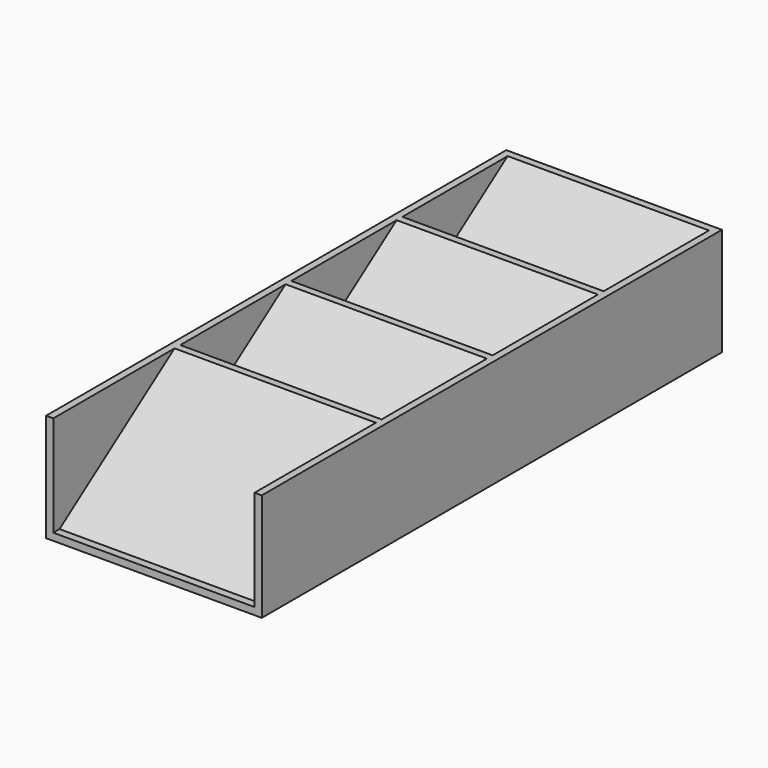
from build123d import *

# Parameters (mm, degrees)
F0_W     = 28
F0_H     = 80
F1_DEPTH = 1
F0_W_2   = 1
F2_DEPTH = 15
F4_DEPTH = 28


with BuildPart() as f1:
    # F0 (on Top) → F1 (new body)
    with BuildSketch(Plane.XY):
        Rectangle(F0_W, F0_H)
    extrude(amount=F1_DEPTH)

    # F0 (on Top) → F2 (join)
    with BuildSketch(Plane.XY):
        with Locations((-14.5, 0)):
            Rectangle(F0_W_2, F0_H)
        with Locations((14.5, 0)):
            Rectangle(F0_W_2, F0_H)
    extrude(amount=F2_DEPTH)

    # F3 (on face) → F4 (join, through all)
    with BuildSketch(Plane.YZ.offset(-14)):
        Polygon((19.005928, 1), (20.005928, 1), (40, 15), (39, 15), align=None)
        Polygon((-0.300263, 1), (0.699737, 1), (20.693809, 15), (19.693809, 15), align=None)
        Polygon((-19.606455, 1), (-18.606455, 1), (1.387617, 15), (0.387617, 15), align=None)
        Polygon((-38.912646, 1), (-37.912646, 1), (-17.918574, 15), (-18.918574, 15), align=None)
    extrude(amount=F4_DEPTH)


solid = f1.part
